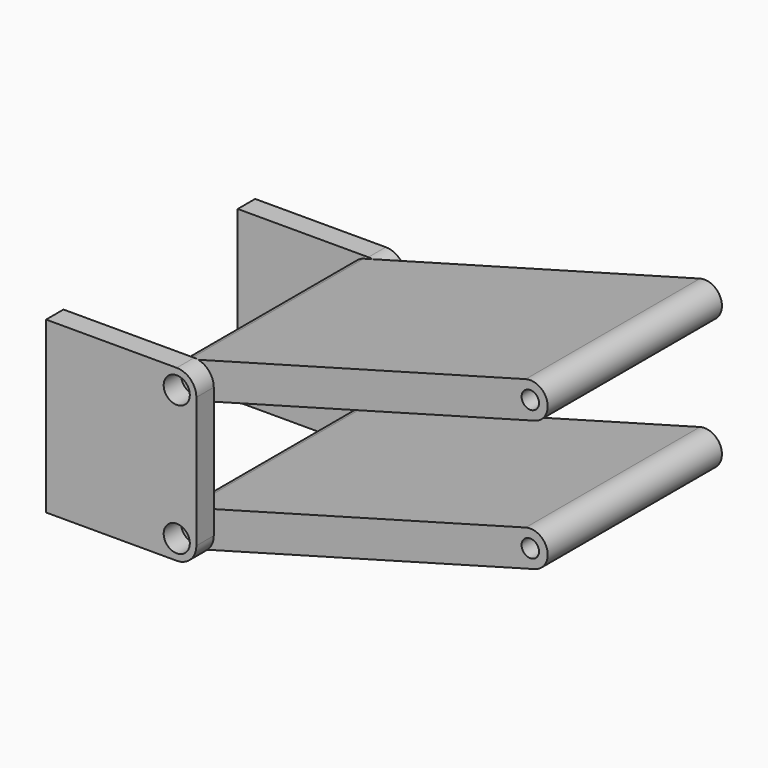
from build123d import *

# Parameters (mm, degrees)
F6_R          = 1
F7_DEPTH      = 12.5
F7_DEPTH_BACK = 12.5
F8_R          = 1.5
F9_DEPTH      = 2.5
F10_R         = 1.5
F11_DEPTH     = 2.5


with BuildPart() as f7:
    # F6 (on plane+point) → F7 (new body, two sides)
    with BuildSketch(Plane.XZ.offset(85)) as f7_sk:
        with BuildLine():
            Line((-53.0593214085, 2.5305150899), (-14.4729915791, 13.0706835085))
            ThreePointArc((-14.4729915791, 13.0706835085), (-13.0706835085, 15.5270084209), (-15.5270084209, 16.9293164915))
            Line((-15.5270084209, 16.9293164915), (-54.1133382504, 6.3891480729))
            ThreePointArc((-54.1133382504, 6.3891480729), (-55.5156463209, 3.9328231605), (-53.0593214085, 2.5305150899))
        make_face()
        with Locations((-53.5863298295, 4.4598315814)):
            Circle(F6_R, mode=Mode.SUBTRACT)
        with Locations((-15, 15)):
            Circle(F6_R, mode=Mode.SUBTRACT)
    extrude(amount=F7_DEPTH)
    extrude(f7_sk.sketch, amount=-F7_DEPTH_BACK)


with BuildPart() as f7b:
    # F6 (on plane+point) → F7, piece 2 (new body, two sides)
    with BuildSketch(Plane.XZ.offset(85)) as f7_2_sk:
        with BuildLine():
            Line((-53.0593214085, -12.4694849101), (-14.4729915791, -1.9293164915))
            ThreePointArc((-14.4729915791, -1.9293164915), (-13.0706835085, 0.5270084209), (-15.5270084209, 1.9293164915))
            Line((-15.5270084209, 1.9293164915), (-54.1133382504, -8.6108519271))
            ThreePointArc((-54.1133382504, -8.6108519271), (-55.5156463209, -11.0671768395), (-53.0593214085, -12.4694849101))
        make_face()
        with Locations((-53.5863298295, -10.5401684186)):
            Circle(F6_R, mode=Mode.SUBTRACT)
        with Locations((-15, 0)):
            Circle(F6_R, mode=Mode.SUBTRACT)
    extrude(amount=F7_DEPTH)
    extrude(f7_2_sk.sketch, amount=-F7_DEPTH_BACK)


with BuildPart() as f9:
    # F8 (on face) → F9 (new body)
    with BuildSketch(Plane.XZ.offset(97.5)):
        with BuildLine():
            Line((-53.5863298295, 6.7098315814), (-68.5863298295, 6.7098315814))
            Line((-68.5863298295, 6.7098315814), (-68.5863298295, -12.7901684186))
            Line((-68.5863298295, -12.7901684186), (-53.5863298295, -12.7901684186))
            ThreePointArc((-53.5863298295, -12.7901684186), (-51.9953395718, -12.1311586763), (-51.3363298295, -10.5401684186))
            Line((-51.3363298295, -10.5401684186), (-51.3363298295, 4.4598315814))
            ThreePointArc((-51.3363298295, 4.4598315814), (-51.9953395718, 6.0508218391), (-53.5863298295, 6.7098315814))
        make_face()
        with Locations((-53.5863298295, -10.5401684186)):
            Circle(F8_R, mode=Mode.SUBTRACT)
        with Locations((-53.5863298295, 4.4598315814)):
            Circle(F8_R, mode=Mode.SUBTRACT)
    extrude(amount=F9_DEPTH)


with BuildPart() as f11:
    # F10 (on face) → F11 (new body)
    with BuildSketch(Plane(origin=(0, -72.5, 0), x_dir=(-1, 0, 0), z_dir=(0, 1, 0))):
        with BuildLine():
            Line((68.5863298295, -12.7901684186), (68.5863298295, 6.7098315814))
            Line((68.5863298295, 6.7098315814), (53.5863298295, 6.7098315814))
            ThreePointArc((53.5863298295, 6.7098315814), (51.9953395718, 6.0508218391), (51.3363298295, 4.4598315814))
            Line((51.3363298295, 4.4598315814), (51.3363298295, -10.5401684186))
            ThreePointArc((51.3363298295, -10.5401684186), (51.9953395718, -12.1311586763), (53.5863298295, -12.7901684186))
            Line((53.5863298295, -12.7901684186), (68.5863298295, -12.7901684186))
        make_face()
        with Locations((53.5863298295, -10.5401684186)):
            Circle(F10_R, mode=Mode.SUBTRACT)
        with Locations((53.5863298295, 4.4598315814)):
            Circle(F10_R, mode=Mode.SUBTRACT)
    extrude(amount=F11_DEPTH)


solid = Compound([f7.part, f7b.part, f9.part, f11.part])
